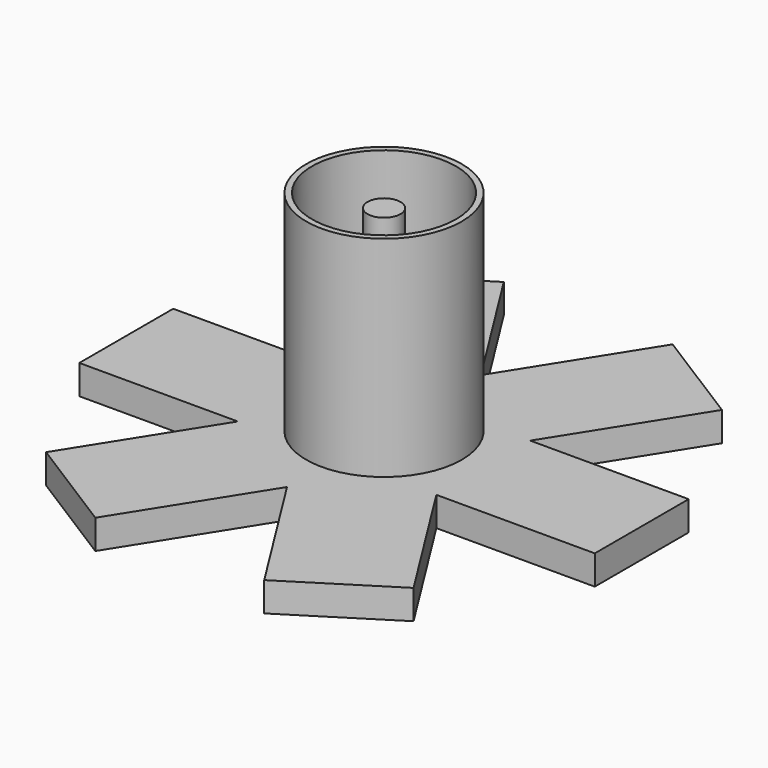
from build123d import *

# Parameters (mm, degrees)
F1_DEPTH  = 100
F2_R      = 265.1875934323
F3_DEPTH  = 715
F4_DEPTH  = 540
F5_DEPTH  = 540
F6_DEPTH  = 540
F7_DEPTH  = 540
F8_DEPTH  = 540
F9_DEPTH  = 540
F10_R     = 245.2357651559
F11_DEPTH = 711.2
F12_R     = 56.2093227212
F13_DEPTH = 665.48


with BuildPart() as f1:
    # F0 (on Top) → F1 (new body)
    with BuildSketch(Plane.XY):
        Polygon((124.6471304007, -153.2710264661), (124.6471304007, 246.7289735339), (-213.8127173087, 459.9071419483), (-552.2725650182, 246.7289735339), (-552.2725650182, -153.2710264661), (-213.8127173087, -366.4491948805), align=None)
    extrude(amount=F1_DEPTH)

    # F4 (add): a face of the model
    f4_faces = [f1.faces().sort_by_distance(p)[0] for p in [
        (-44.582793454, -259.8601106733, 50),
    ]]
    extrude(f4_faces, amount=F4_DEPTH)

    # F5 (add): a face of the model
    f5_faces = [f1.faces().sort_by_distance(p)[0] for p in [
        (124.6471304007, 46.7289735339, 50),
    ]]
    extrude(f5_faces, amount=F5_DEPTH)

    # F6 (add): a face of the model
    f6_faces = [f1.faces().sort_by_distance(p)[0] for p in [
        (-383.0426411634, -259.8601106733, 50),
    ]]
    extrude(f6_faces, amount=F6_DEPTH)

    # F7 (add): a face of the model
    f7_faces = [f1.faces().sort_by_distance(p)[0] for p in [
        (-552.2725650182, 46.7289735339, 50),
    ]]
    extrude(f7_faces, amount=F7_DEPTH)

    # F8 (add): a face of the model
    f8_faces = [f1.faces().sort_by_distance(p)[0] for p in [
        (-383.0426411634, 353.3180577411, 50),
    ]]
    extrude(f8_faces, amount=F8_DEPTH)

    # F9 (add): a face of the model
    f9_faces = [f1.faces().sort_by_distance(p)[0] for p in [
        (-44.582793454, 353.3180577411, 50),
    ]]
    extrude(f9_faces, amount=F9_DEPTH)


with BuildPart() as f3:
    # F2 (on face) → F3 (new body)
    with BuildSketch(Plane.XY.offset(100)):
        with Locations((-213.8127173087, 46.7289735339)):
            Circle(F2_R)
    extrude(amount=F3_DEPTH)

    # F10 (on face) → F11 (cut)
    with BuildSketch(Plane.XY.offset(815)):
        with Locations((-213.8127173087, 46.7289735339)):
            Circle(F10_R)
    extrude(amount=-F11_DEPTH, mode=Mode.SUBTRACT)

    # F12 (on face) → F13 (join)
    with BuildSketch(Plane.XY.offset(103.8)):
        with Locations((-213.8127173087, 46.7289735339)):
            Circle(F12_R)
    extrude(amount=F13_DEPTH)


solid = Compound([f1.part, f3.part])
